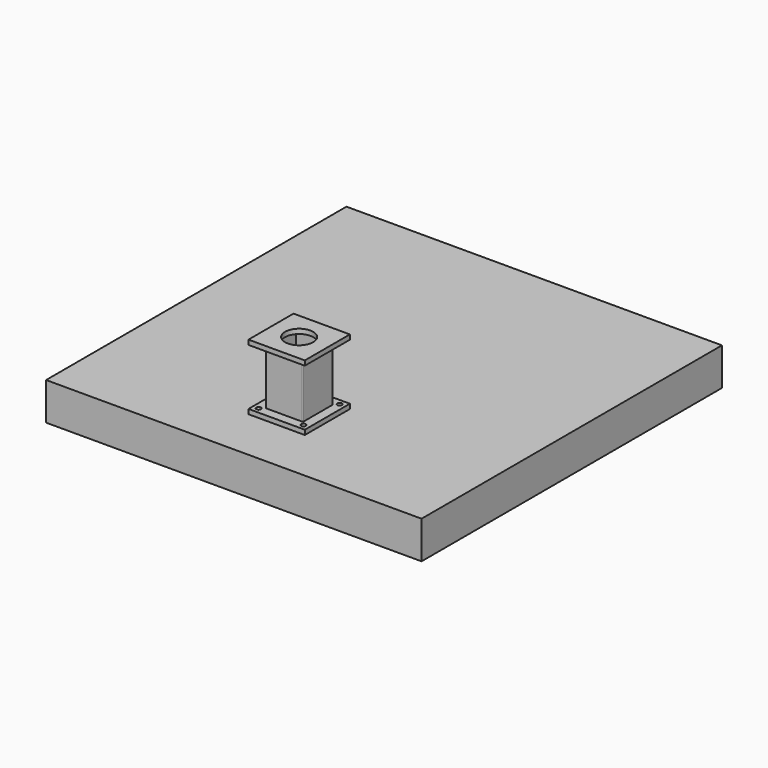
from build123d import *

# Parameters (mm, degrees)
F0_W      = 2000
F0_H      = 2000
F1_DEPTH  = 200
F2_W      = 300
F2_H      = 300
F3_DEPTH  = 25
F5_D      = 25
F5_DEPTH  = 25
F5_TIP    = 7.5107577378
F6_D      = 150
F6_DEPTH  = 25
F6_TIP    = 45.0645464271
F7_W      = 182
F7_H      = 182
F8_DEPTH  = 300
F9_W      = 300
F9_H      = 300
F10_DEPTH = 25
F12_D     = 150
F12_DEPTH = 25
F12_TIP   = 45.0645464271


with BuildPart() as f1:
    # F0 (on Top) → F1 (new body)
    with BuildSketch(Plane.XY):
        with Locations((-3.9364807308, 344.8101401439)):
            Rectangle(F0_W, F0_H)
    extrude(amount=F1_DEPTH)

    # F2 (on face) → F3 (join)
    with BuildSketch(Plane.XY.offset(200)):
        with Locations((-3.9364807308, -220.0311138496)):
            Rectangle(F2_W, F2_H)
    extrude(amount=F3_DEPTH)

    # F5
    with Locations(Plane.XY.offset(225)):
        with Locations((-123.9364807308, -100.0311138496), (-123.9364807308, -340.0311138496), (116.0635192692, -340.0311138496), (116.0635192692, -100.0311138496)):
            Hole(F5_D / 2, depth=F5_DEPTH)
            with Locations((0, 0, -(F5_DEPTH + F5_TIP / 2))):  # 118° drill point
                Cone(0, F5_D / 2, F5_TIP, mode=Mode.SUBTRACT)

    # F6
    with Locations(Plane.XY.offset(225)):
        with Locations((-3.9364807308, -220.0311138496)):
            Hole(F6_D / 2, depth=F6_DEPTH)
            with Locations((0, 0, -(F6_DEPTH + F6_TIP / 2))):  # 118° drill point
                Cone(0, F6_D / 2, F6_TIP, mode=Mode.SUBTRACT)

    # F7 (on face) → F8 (join)
    with BuildSketch(Plane.XY.offset(225)):
        with BuildLine():
            Line((91.0635192692, -120.0311138496), (-98.9364807308, -120.0311138496))
            ThreePointArc((-98.9364807308, -120.0311138496), (-102.4720146367, -121.4955799437), (-103.9364807308, -125.0311138496))
            Line((-103.9364807308, -125.0311138496), (-103.9364807308, -315.0311138496))
            ThreePointArc((-103.9364807308, -315.0311138496), (-102.4720146367, -318.5666477555), (-98.9364807308, -320.0311138496))
            Line((-98.9364807308, -320.0311138496), (91.0635192692, -320.0311138496))
            ThreePointArc((91.0635192692, -320.0311138496), (94.5990531752, -318.5666477555), (96.0635192692, -315.0311138496))
            Line((96.0635192692, -315.0311138496), (96.0635192692, -125.0311138496))
            ThreePointArc((96.0635192692, -125.0311138496), (94.5990531752, -121.4955799437), (91.0635192692, -120.0311138496))
        make_face()
        with Locations((-3.9364807308, -220.0311138496)):
            Rectangle(F7_W, F7_H, mode=Mode.SUBTRACT)
    extrude(amount=F8_DEPTH)

    # F9 (on face) → F10 (join)
    with BuildSketch(Plane.XY.offset(525)):
        with Locations((-3.9364807308, -220.0311138496)):
            Rectangle(F9_W, F9_H)
    extrude(amount=F10_DEPTH)

    # F12
    with Locations(Plane.XY.offset(550)):
        with Locations((-3.9364807308, -220.0311138496)):
            Hole(F12_D / 2, depth=F12_DEPTH)
            with Locations((0, 0, -(F12_DEPTH + F12_TIP / 2))):  # 118° drill point
                Cone(0, F12_D / 2, F12_TIP, mode=Mode.SUBTRACT)


solid = f1.part
